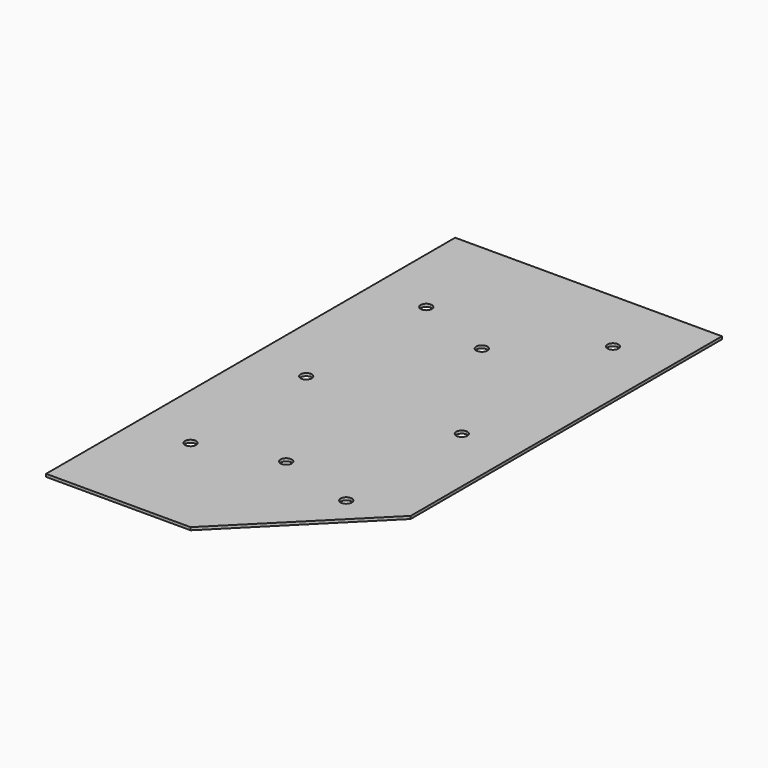
from build123d import *

# Parameters (mm, degrees)
F0_R     = 6.35
F1_DEPTH = 3.175


with BuildPart() as f1:
    # F0 (on Top) → F1 (new body)
    with BuildSketch(Plane.XY):
        with BuildLine():
            Line((152.4, -152.4), (152.4, 292.1))
            Line((152.4, 292.1), (88.9, 292.1))
            Line((88.9, 292.1), (-88.9, 292.1))
            Line((-88.9, 292.1), (-152.4, 292.1))
            Line((-152.4, 292.1), (-152.4, -292.1))
            Line((-152.4, -292.1), (-88.9, -292.1))
            Line((-88.9, -292.1), (12.7, -292.1))
            Line((12.7, -292.1), (88.9, -215.9))
            Line((88.9, -215.9), (88.9, -171.45))
            ThreePointArc((88.9, -171.45), (84.409872, -169.590128), (82.55, -165.1))
            ThreePointArc((82.55, -165.1), (84.409872, -160.609872), (88.9, -158.75))
            ThreePointArc((88.9, -158.75), (93.390128, -160.609872), (95.25, -165.1))
            Line((95.25, -165.1), (139.7, -165.1))
            Line((139.7, -165.1), (152.4, -152.4))
        make_face()
        with BuildLine():
            ThreePointArc((-82.55, -165.1), (-84.409872, -169.590128), (-88.9, -171.45))
            ThreePointArc((-88.9, -171.45), (-93.390128, -169.590128), (-95.25, -165.1))
            ThreePointArc((-95.25, -165.1), (-93.390128, -160.609872), (-88.9, -158.75))
            ThreePointArc((-88.9, -158.75), (-84.409872, -160.609872), (-82.55, -165.1))
        make_face(mode=Mode.SUBTRACT)
        with Locations((0, -139.7)):
            Circle(F0_R, mode=Mode.SUBTRACT)
        with BuildLine():
            ThreePointArc((-88.9, 6.35), (-84.409872, 4.490128), (-82.55, 0))
            ThreePointArc((-82.55, 0), (-84.409872, -4.490128), (-88.9, -6.35))
            ThreePointArc((-88.9, -6.35), (-95.25, 0), (-88.9, 6.35))
        make_face(mode=Mode.SUBTRACT)
        with BuildLine():
            ThreePointArc((-88.9, 165.1), (-95.25, 171.45), (-88.9, 177.8))
            ThreePointArc((-88.9, 177.8), (-84.409872, 175.940128), (-82.55, 171.45))
            ThreePointArc((-82.55, 171.45), (-84.409872, 166.959872), (-88.9, 165.1))
        make_face(mode=Mode.SUBTRACT)
        with Locations((0, 139.7)):
            Circle(F0_R, mode=Mode.SUBTRACT)
        with BuildLine():
            ThreePointArc((88.9, 6.35), (93.390128, 4.490128), (95.25, 0))
            ThreePointArc((95.25, 0), (93.390128, -4.490128), (88.9, -6.35))
            ThreePointArc((88.9, -6.35), (82.55, 0), (88.9, 6.35))
        make_face(mode=Mode.SUBTRACT)
        with BuildLine():
            ThreePointArc((88.9, 209.55), (82.55, 215.9), (88.9, 222.25))
            ThreePointArc((88.9, 222.25), (93.390128, 220.390128), (95.25, 215.9))
            ThreePointArc((95.25, 215.9), (93.390128, 211.409872), (88.9, 209.55))
        make_face(mode=Mode.SUBTRACT)
        with BuildLine():
            Line((88.9, -215.9), (139.7, -165.1))
            Line((139.7, -165.1), (95.25, -165.1))
            ThreePointArc((95.25, -165.1), (93.390128, -169.590128), (88.9, -171.45))
            Line((88.9, -171.45), (88.9, -215.9))
        make_face()
    extrude(amount=F1_DEPTH)


solid = f1.part
